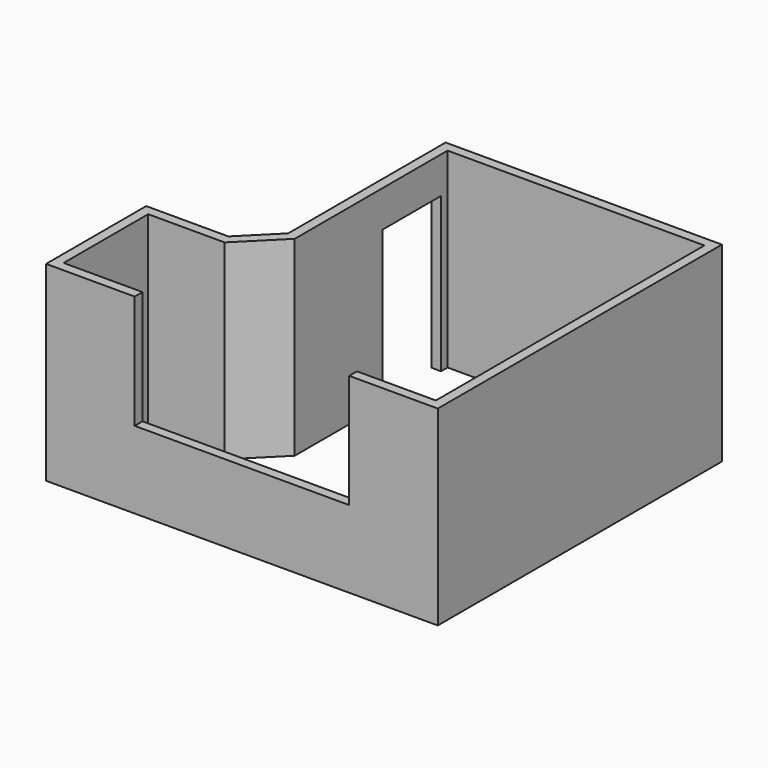
from build123d import *

# Parameters (mm, degrees)
F1_DEPTH = 2350
F3_DEPTH = 2350.001
F4_W     = 2640
F4_H     = 1400
F5_DEPTH = 120
F6_W     = 900
F6_H     = 1900
F7_DEPTH = 120


with BuildPart() as f1:
    # F0 (on Top) → F1 (new body)
    with BuildSketch(Plane.XY):
        Polygon((-1399.106481, -1135), (-2410, -1135), (-2410, -2675), (2410, -2675), (2410, 1695), (-990, 1695), (-990, -725.893519), align=None)
    extrude(amount=F1_DEPTH)

    # F2 (on face) → F3 (cut, through all)
    with BuildSketch(Plane.XY.offset(2350)):
        Polygon((-1349.400853, -1255), (-2290, -1255), (-2290, -2555), (2290, -2555), (2290, 1575), (-870, 1575), (-870, -775.599147), align=None)
    extrude(amount=-F3_DEPTH, mode=Mode.SUBTRACT)

    # F4 (on face) → F5 (cut, through all)
    with BuildSketch(Plane.XZ.offset(2675)):
        with Locations((0, 1650)):
            Rectangle(F4_W, F4_H)
    extrude(amount=-F5_DEPTH, mode=Mode.SUBTRACT)

    # F6 (on face) → F7 (cut, through all)
    with BuildSketch(Plane.YZ.offset(-870)):
        with Locations((1025, 950)):
            Rectangle(F6_W, F6_H)
    extrude(amount=-F7_DEPTH, mode=Mode.SUBTRACT)


solid = f1.part
